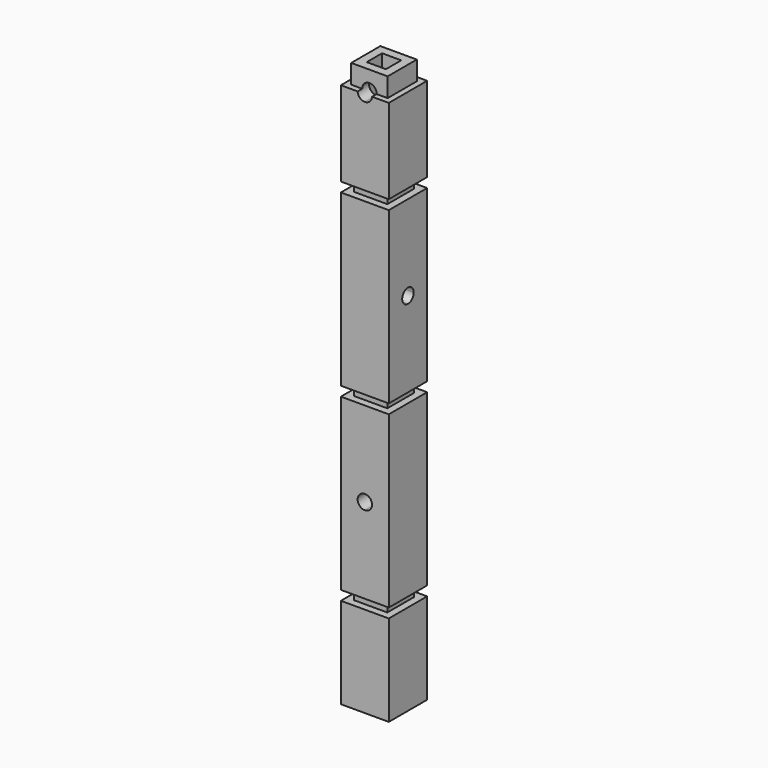
from build123d import *

# Parameters (mm, degrees)
F0_W      = 31.75
F0_H      = 31.75
F1_DEPTH  = 60.33
F2_W      = 22.23
F2_H      = 22.23
F3_DEPTH  = 6.35
F4_W      = 31.75
F4_H      = 31.75
F5_DEPTH  = 112.71
F6_W      = 22.23
F6_H      = 22.23
F7_DEPTH  = 6.35
F8_W      = 31.75
F8_H      = 31.75
F8_W_2    = 22.23
F8_H_2    = 22.23
F9_DEPTH  = 112.71
F10_W     = 22.23
F10_H     = 22.23
F11_DEPTH = 6.35
F12_W     = 31.75
F12_H     = 31.75
F12_W_2   = 22.23
F12_H_2   = 22.23
F13_DEPTH = 112.71
F14_W     = 22.23
F14_H     = 22.23
F15_DEPTH = 6.35
F16_W     = 31.75
F16_H     = 31.75
F17_DEPTH = 112.71
F18_W     = 22.23
F18_H     = 22.23
F19_DEPTH = 6.35
F20_W     = 31.75
F20_H     = 31.75
F20_W_2   = 22.23
F20_H_2   = 22.23
F21_DEPTH = 112.71
F22_W     = 22.23
F22_H     = 22.23
F23_DEPTH = 6.35
F24_W     = 31.75
F24_H     = 31.75
F24_W_2   = 22.23
F24_H_2   = 22.23
F25_DEPTH = 25.4
F26_W     = 22.23
F26_H     = 22.23
F27_DEPTH = 6.35
F28_W     = 31.75
F28_H     = 31.75
F28_W_2   = 22.23
F28_H_2   = 22.23
F29_DEPTH = 31.75
F32_DEPTH = 12.7
F34_DEPTH = 12.7
F36_DEPTH = 12.7
F38_DEPTH = 12.7
F40_DEPTH = 12.7
F41_W     = 12.7
F41_H     = 12.7
F42_DEPTH = 736.6
F43_DEPTH = 6.35
F44_W     = 31.75
F44_H     = 351.79
F45_DEPTH = 76.2
F46_W     = 31.75
F46_H     = 31.75
F46_W_2   = 24.13
F46_H_2   = 24.13
F47_DEPTH = 12.7


with BuildPart() as f1:
    # F0 (on Top) → F1 (new body)
    with BuildSketch(Plane.XY):
        with Locations((15.875, 15.875)):
            Rectangle(F0_W, F0_H)
    extrude(amount=F1_DEPTH)

    # F2 (on face) → F3 (join)
    with BuildSketch(Plane.XY.offset(60.33)):
        with Locations((15.875, 15.875)):
            Rectangle(F2_W, F2_H)
    extrude(amount=F3_DEPTH)

    # F4 (on face) → F5 (join)
    with BuildSketch(Plane.XY.offset(66.68)):
        with Locations((15.875, 15.875)):
            Rectangle(F4_W, F4_H)
    extrude(amount=F5_DEPTH)

    # F6 (on face) → F7 (join)
    with BuildSketch(Plane.XY.offset(179.39)):
        with Locations((15.875, 15.875)):
            Rectangle(F6_W, F6_H)
    extrude(amount=F7_DEPTH)

    # F8 (on face) → F9 (join)
    with BuildSketch(Plane.XY.offset(185.74)):
        with Locations((15.875, 15.875)):
            Rectangle(F8_W, F8_H)
        with Locations((15.875, 15.875)):
            Rectangle(F8_W_2, F8_H_2, mode=Mode.SUBTRACT)
        with Locations((15.875, 15.875)):
            Rectangle(F8_W_2, F8_H_2)
    extrude(amount=F9_DEPTH)

    # F10 (on face) → F11 (join)
    with BuildSketch(Plane.XY.offset(298.45)):
        with Locations((15.875, 15.875)):
            Rectangle(F10_W, F10_H)
    extrude(amount=F11_DEPTH)

    # F12 (on face) → F13 (join)
    with BuildSketch(Plane.XY.offset(304.8)):
        with Locations((15.875, 15.875)):
            Rectangle(F12_W, F12_H)
        with Locations((15.875, 15.875)):
            Rectangle(F12_W_2, F12_H_2, mode=Mode.SUBTRACT)
        with Locations((15.875, 15.875)):
            Rectangle(F12_W_2, F12_H_2)
    extrude(amount=F13_DEPTH)

    # F14 (on face) → F15 (join)
    with BuildSketch(Plane.XY.offset(417.51)):
        with Locations((15.875, 15.875)):
            Rectangle(F14_W, F14_H)
    extrude(amount=F15_DEPTH)

    # F16 (on face) → F17 (join)
    with BuildSketch(Plane.XY.offset(423.86)):
        with Locations((15.875, 15.875)):
            Rectangle(F16_W, F16_H)
    extrude(amount=F17_DEPTH)

    # F18 (on face) → F19 (join)
    with BuildSketch(Plane.XY.offset(536.57)):
        with Locations((15.875, 15.875)):
            Rectangle(F18_W, F18_H)
    extrude(amount=F19_DEPTH)

    # F20 (on face) → F21 (join)
    with BuildSketch(Plane.XY.offset(542.92)):
        with Locations((15.875, 15.875)):
            Rectangle(F20_W, F20_H)
        with Locations((15.875, 15.875)):
            Rectangle(F20_W_2, F20_H_2, mode=Mode.SUBTRACT)
        with Locations((15.875, 15.875)):
            Rectangle(F20_W_2, F20_H_2)
    extrude(amount=F21_DEPTH)

    # F22 (on face) → F23 (join)
    with BuildSketch(Plane.XY.offset(655.63)):
        with Locations((15.875, 15.875)):
            Rectangle(F22_W, F22_H)
    extrude(amount=F23_DEPTH)

    # F24 (on face) → F25 (join)
    with BuildSketch(Plane.XY.offset(661.98)):
        with Locations((15.875, 15.875)):
            Rectangle(F24_W, F24_H)
        with Locations((15.875, 15.875)):
            Rectangle(F24_W_2, F24_H_2, mode=Mode.SUBTRACT)
        with Locations((15.875, 15.875)):
            Rectangle(F24_W_2, F24_H_2)
    extrude(amount=F25_DEPTH)

    # F26 (on face) → F27 (join)
    with BuildSketch(Plane.XY.offset(687.38)):
        with Locations((15.875, 15.875)):
            Rectangle(F26_W, F26_H)
    extrude(amount=F27_DEPTH)

    # F28 (on face) → F29 (join)
    with BuildSketch(Plane.XY.offset(693.73)):
        with Locations((15.875, 15.875)):
            Rectangle(F28_W, F28_H)
        with Locations((15.875, 15.875)):
            Rectangle(F28_W_2, F28_H_2, mode=Mode.SUBTRACT)
        with Locations((15.875, 15.875)):
            Rectangle(F28_W_2, F28_H_2)
    extrude(amount=F29_DEPTH)

    # F31 (on face) → F32 (cut)
    with BuildSketch(Plane.XZ):
        with BuildLine():
            Line((15.875, 123.035), (20.64, 123.035))
            ThreePointArc((20.64, 123.035), (12.5056361876, 126.4043638124), (15.875, 118.27))
            Line((15.875, 118.27), (15.875, 123.035))
        make_face()
        with BuildLine():
            ThreePointArc((15.875, 118.27), (19.2443638124, 119.6656361876), (20.64, 123.035))
            Line((20.64, 123.035), (15.875, 123.035))
            Line((15.875, 123.035), (15.875, 118.27))
        make_face()
    extrude(amount=-F32_DEPTH, mode=Mode.SUBTRACT)

    # F33 (on face) → F34 (cut)
    with BuildSketch(Plane.YZ.offset(31.75)):
        with BuildLine():
            Line((15.875, 242.095), (20.64, 242.095))
            ThreePointArc((20.64, 242.095), (12.5056361876, 245.4643638124), (15.875, 237.33))
            Line((15.875, 237.33), (15.875, 242.095))
        make_face()
        with BuildLine():
            ThreePointArc((15.875, 237.33), (19.2443638124, 238.7256361876), (20.64, 242.095))
            Line((20.64, 242.095), (15.875, 242.095))
            Line((15.875, 242.095), (15.875, 237.33))
        make_face()
    extrude(amount=-F34_DEPTH, mode=Mode.SUBTRACT)

    # F35 (on face) → F36 (cut)
    with BuildSketch(Plane.XZ):
        with BuildLine():
            Line((15.875, 361.155), (20.64, 361.155))
            ThreePointArc((20.64, 361.155), (12.5056361876, 364.5243638124), (15.875, 356.39))
            Line((15.875, 356.39), (15.875, 361.155))
        make_face()
        with BuildLine():
            ThreePointArc((15.875, 356.39), (19.2443638124, 357.7856361876), (20.64, 361.155))
            Line((20.64, 361.155), (15.875, 361.155))
            Line((15.875, 361.155), (15.875, 356.39))
        make_face()
    extrude(amount=-F36_DEPTH, mode=Mode.SUBTRACT)

    # F37 (on face) → F38 (cut)
    with BuildSketch(Plane.YZ.offset(31.75)):
        with BuildLine():
            Line((15.875, 480.215), (20.64, 480.215))
            ThreePointArc((20.64, 480.215), (12.5056361876, 483.5843638124), (15.875, 475.45))
            Line((15.875, 475.45), (15.875, 480.215))
        make_face()
        with BuildLine():
            ThreePointArc((15.875, 475.45), (19.2443638124, 476.8456361876), (20.64, 480.215))
            Line((20.64, 480.215), (15.875, 480.215))
            Line((15.875, 480.215), (15.875, 475.45))
        make_face()
    extrude(amount=-F38_DEPTH, mode=Mode.SUBTRACT)

    # F39 (on face) → F40 (cut)
    with BuildSketch(Plane.XZ):
        with BuildLine():
            Line((15.875, 599.275), (20.64, 599.275))
            ThreePointArc((20.64, 599.275), (12.5056361876, 602.6443638124), (15.875, 594.51))
            Line((15.875, 594.51), (15.875, 599.275))
        make_face()
        with BuildLine():
            ThreePointArc((15.875, 594.51), (19.2443638124, 595.9056361876), (20.64, 599.275))
            Line((20.64, 599.275), (15.875, 599.275))
            Line((15.875, 599.275), (15.875, 594.51))
        make_face()
    extrude(amount=-F40_DEPTH, mode=Mode.SUBTRACT)

    # F41 (on face) → F42 (cut)
    with BuildSketch(Plane.XY.offset(725.48)):
        with Locations((15.87, 15.87)):
            Rectangle(F41_W, F41_H)
    extrude(amount=-F42_DEPTH, mode=Mode.SUBTRACT)

    # F30 (on face) → F43 (cut)
    with BuildSketch(Plane(origin=(0, 0, 0), x_dir=(1, 0, 0), z_dir=(0, 0, -1))):
        with BuildLine():
            ThreePointArc((6.35, -15.875), (9.1398079092, -22.6101920908), (15.875, -25.4))
            Line((15.875, -25.4), (15.875, -15.875))
            Line((15.875, -15.875), (6.35, -15.875))
        make_face()
        with BuildLine():
            Line((15.875, -15.875), (15.875, -25.4))
            ThreePointArc((15.875, -25.4), (22.6101920908, -22.6101920908), (25.4, -15.875))
            ThreePointArc((25.4, -15.875), (15.875, -6.35), (6.35, -15.875))
            Line((6.35, -15.875), (15.875, -15.875))
        make_face()
    extrude(amount=-F43_DEPTH, mode=Mode.SUBTRACT)

    # F44 (on face) → F45 (cut)
    with BuildSketch(Plane.XZ):
        with Locations((15.875, 549.585)):
            Rectangle(F44_W, F44_H)
    extrude(amount=-F45_DEPTH, mode=Mode.SUBTRACT)

    # F46 (on face) → F47 (cut)
    with BuildSketch(Plane.XY.offset(373.69)):
        with Locations((15.875, 15.875)):
            Rectangle(F46_W, F46_H)
        with Locations((15.875, 15.875)):
            Rectangle(F46_W_2, F46_H_2, mode=Mode.SUBTRACT)
    extrude(amount=-F47_DEPTH, mode=Mode.SUBTRACT)


solid = f1.part
